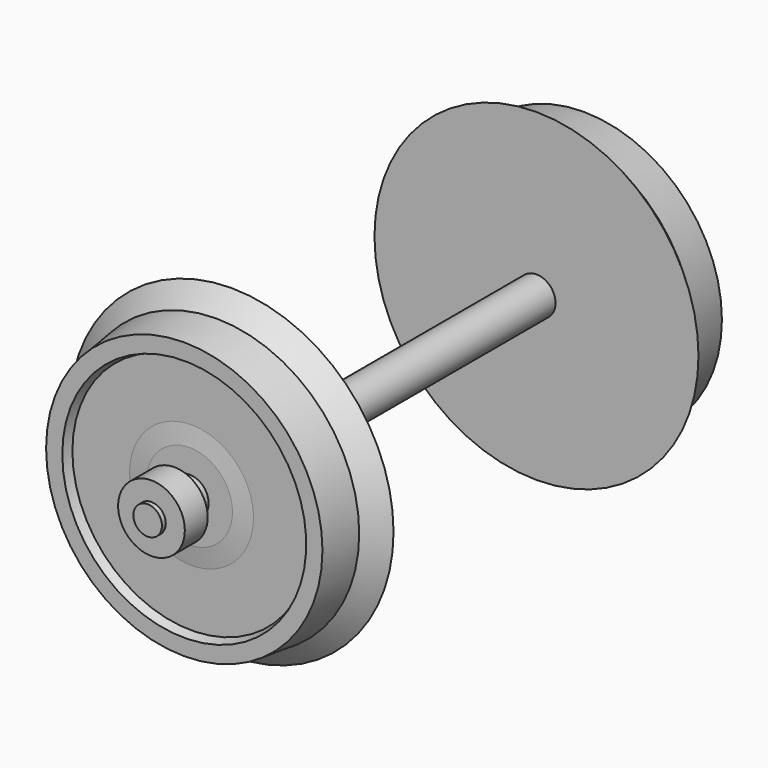
from build123d import *

# Parameters (mm, degrees)
CYLINDER118_R          = 2
CYLINDER118_DEPTH      = 10
CUT063_PLACEMENT_ANGLE = 180
CYLINDER116_R          = 2
CYLINDER116_DEPTH      = 55
CYLINDER117_R          = 1.5
CYLINDER117_DEPTH      = 62
TUBE011_R              = 3.5
TUBE011_R_2            = 1.5
TUBE011_DEPTH          = 3
TUBE010_R              = 3.5
TUBE010_R_2            = 1.5
TUBE010_DEPTH          = 3
CYLINDER119_R          = 2
CYLINDER119_DEPTH      = 10


with BuildPart() as cylinder118:
    # Cylinder118 → Cylinder118 (new body)
    with BuildSketch(Plane.XZ.offset(-8)):
        Circle(CYLINDER118_R)
    extrude(amount=CYLINDER118_DEPTH)


with BuildPart() as rad_d:
    # Sketch005 → Revolve005 (revolve)
    with BuildSketch(Plane.XY):
        Polygon((0, 0), (17, 0), (15, 2), (14.5, 6.2), (12.8, 6.2), (12.5, 5.25), (6.5, 5.25), (4.5, 5.5), (0, 5.5), align=None)
    revolve(axis=Axis((0, 0, 0), (0, -1, 0)))

    # Cut063: cut Cylinder118
    add(cylinder118.part, mode=Mode.SUBTRACT)


with BuildPart() as rad_d_1:
    # Cut063 placement: moved
    add(rad_d.part.moved(Location((75, -40, 0))).rotate(Axis((75, -40, 0), (0, 0, 1)), CUT063_PLACEMENT_ANGLE))


with BuildPart() as cylinder116:
    # Cylinder116 → Cylinder116 (new body)
    with BuildSketch(Plane.XZ.offset(-7.5)):
        Circle(CYLINDER116_R)
    extrude(amount=CYLINDER116_DEPTH)


with BuildPart() as achse_b:
    # Cylinder117 → Cylinder117 (new body)
    with BuildSketch(Plane.XZ.offset(-11)):
        Circle(CYLINDER117_R)
    extrude(amount=CYLINDER117_DEPTH)

    # Fusion077: union Cylinder116
    add(cylinder116.part)


with BuildPart() as achse_b_1:
    # Fusion077 placement: moved
    add(achse_b.part.moved(Location((75, 0, 0))))


with BuildPart() as obj1:
    # Tube011 → Tube011 (new body)
    with BuildSketch(Plane(origin=(75, -50.5, 0), x_dir=(1, 0, 0), z_dir=(0, 1, 0))):
        Circle(TUBE011_R)
        Circle(TUBE011_R_2, mode=Mode.SUBTRACT)
    extrude(amount=TUBE011_DEPTH)


with BuildPart() as obj2:
    # Tube010 → Tube010 (new body)
    with BuildSketch(Plane(origin=(75, 7.5, 0), x_dir=(1, 0, 0), z_dir=(0, 1, 0))):
        Circle(TUBE010_R)
        Circle(TUBE010_R_2, mode=Mode.SUBTRACT)
    extrude(amount=TUBE010_DEPTH)


with BuildPart() as cylinder119:
    # Cylinder119 → Cylinder119 (new body)
    with BuildSketch(Plane.XZ.offset(-8)):
        Circle(CYLINDER119_R)
    extrude(amount=CYLINDER119_DEPTH)


with BuildPart() as obj3:
    # Sketch005 → Revolve006 (revolve)
    with BuildSketch(Plane.XY):
        Polygon((0, 0), (17, 0), (15, 2), (14.5, 6.2), (12.8, 6.2), (12.5, 5.25), (6.5, 5.25), (4.5, 5.5), (0, 5.5), align=None)
    revolve(axis=Axis((0, 0, 0), (0, -1, 0)))

    # Cut064: cut Cylinder119
    add(cylinder119.part, mode=Mode.SUBTRACT)


with BuildPart() as obj3_1:
    # Cut064 placement: moved
    add(obj3.part.moved(Location((75, 0, 0))))

    # Fusion079: union Rad-D, Achse-B, obj1, obj2
    add(rad_d_1.part)
    add(achse_b_1.part)
    add(obj1.part)
    add(obj2.part)


solid = obj3_1.part
